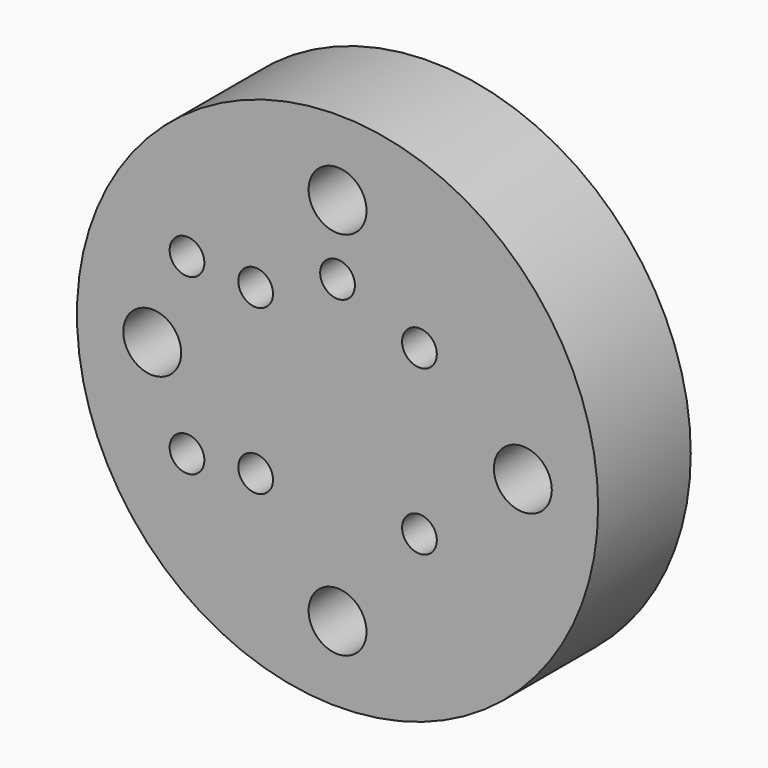
from build123d import *

# Parameters (mm, degrees)
F0_R     = 22.5
F0_R_2   = 1.5
F1_DEPTH = 10
F2_R     = 7.5
F3_DEPTH = 7
F4_R     = 2.5
F5_DEPTH = 25


with BuildPart() as f1:
    # F0 (on Front) → F1 (new body)
    with BuildSketch(Plane.XZ):
        Circle(F0_R)
        with Locations((-13, -7.5)):
            Circle(F0_R_2, mode=Mode.SUBTRACT)
        with Locations((-7.071068, -7.071068)):
            Circle(F0_R_2, mode=Mode.SUBTRACT)
        with Locations((7.071068, -7.071068)):
            Circle(F0_R_2, mode=Mode.SUBTRACT)
        with Locations((-13, 7.5)):
            Circle(F0_R_2, mode=Mode.SUBTRACT)
        with Locations((-7.071068, 7.071068)):
            Circle(F0_R_2, mode=Mode.SUBTRACT)
        with Locations((0, 10)):
            Circle(F0_R_2, mode=Mode.SUBTRACT)
        with Locations((7.071068, 7.071068)):
            Circle(F0_R_2, mode=Mode.SUBTRACT)
    extrude(amount=F1_DEPTH)

    # F2 (on face) → F3 (cut)
    with BuildSketch(Plane(origin=(0, 0, 0), x_dir=(-1, 0, 0), z_dir=(0, 1, 0))):
        Circle(F2_R)
    extrude(amount=-F3_DEPTH, mode=Mode.SUBTRACT)

    # F4 (on face) → F5 (cut)
    with BuildSketch(Plane.XZ.offset(10)):
        with Locations((0, 16)):
            Circle(F4_R)
        with Locations((16, 0)):
            Circle(F4_R)
        with Locations((0, -16)):
            Circle(F4_R)
        with Locations((-16, 0)):
            Circle(F4_R)
    extrude(amount=-F5_DEPTH, mode=Mode.SUBTRACT)


solid = f1.part
